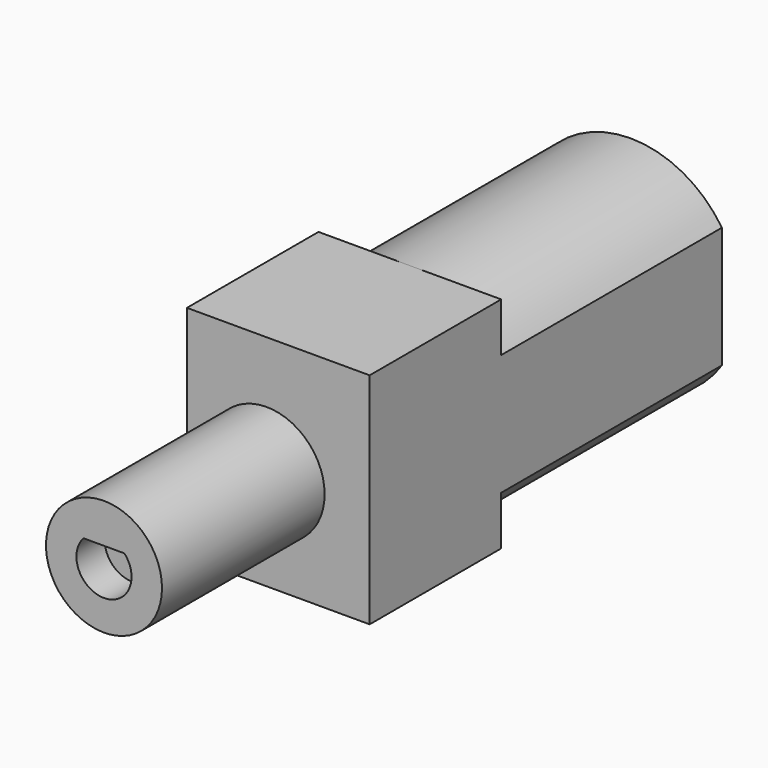
from build123d import *

# Parameters (mm, degrees)
F1_DEPTH  = 24.1
F2_W      = 10
F2_H      = 12
F3_DEPTH  = 9
F5_DEPTH  = 10
F6_R      = 2.5
F7_DEPTH  = 1.5
F8_R      = 1.5
F9_DEPTH  = 0.8
F10_R     = 3.175
F11_DEPTH = 11.1252


with BuildPart() as f1:
    # F0 (on Front) → F1 (new body)
    with BuildSketch(Plane.XZ):
        with BuildLine():
            Line((5, -3.316625), (5, 3.316625))
            ThreePointArc((5, 3.316625), (0, 6), (-5, 3.316625))
            Line((-5, 3.316625), (-5, -3.316625))
            ThreePointArc((-5, -3.316625), (0, -6), (5, -3.316625))
        make_face()
    extrude(amount=-F1_DEPTH)

    # F2 (on Front) → F3 (join)
    with BuildSketch(Plane.XZ):
        Rectangle(F2_W, F2_H)
    extrude(amount=-F3_DEPTH)

    # F4 (on face) → F5 (join)
    with BuildSketch(Plane.XZ):
        with BuildLine():
            Line((1.118034, 1), (-1.118034, 1))
            ThreePointArc((-1.118034, 1), (0, -1.5), (1.118034, 1))
        make_face()
    extrude(amount=F5_DEPTH)

    # F6 (on face) → F7 (join)
    with BuildSketch(Plane(origin=(0, 24.1, 0), x_dir=(-1, 0, 0), z_dir=(0, 1, 0))):
        Circle(F6_R)
    extrude(amount=F7_DEPTH)

    # F8 (on face) → F9 (join)
    with BuildSketch(Plane.XZ):
        Circle(F8_R)
    extrude(amount=F9_DEPTH)


with BuildPart() as f11:
    # F10 (on face) → F11 (new body)
    with BuildSketch(Plane.XZ.offset(0.8)):
        Circle(F10_R)
        with BuildLine():
            ThreePointArc((1.121437, 1.00762), (0, -1.50762), (-1.121437, 1.00762))
            Line((-1.121437, 1.00762), (1.121437, 1.00762))
        make_face(mode=Mode.SUBTRACT)
    extrude(amount=F11_DEPTH)


solid = Compound([f1.part, f11.part])
